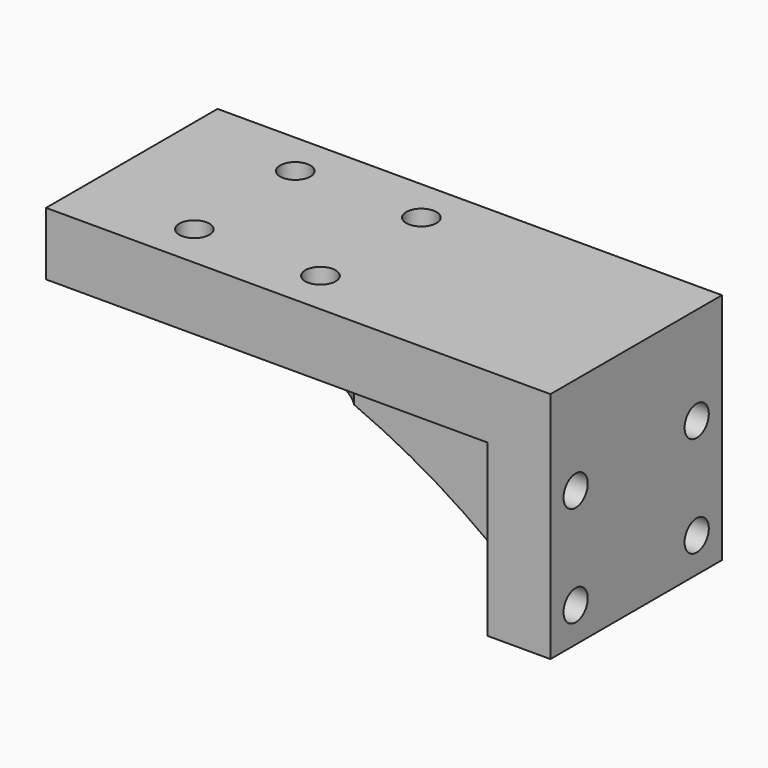
from build123d import *

# Parameters (mm, degrees)
SKETCH005_W     = 40
SKETCH005_H     = 17
PAD002_DEPTH    = 18.5
POCKET003_DEPTH = 17
SKETCH007_R     = 1.2
POCKET004_DEPTH = 40
POCKET005_DEPTH = 13.5
SKETCH009_R     = 1.2
POCKET006_DEPTH = 5
SKETCH010_R     = 2.1
POCKET007_DEPTH = 13.5


with BuildPart() as obj1:
    # Sketch005 (on Face1 of ReferencePocket002) → Pad002 (new body)
    with BuildSketch(Plane(origin=(0, 0, -10), x_dir=(1, 0, 0), z_dir=(0, 0, -1))):
        with Locations((-81, -91.5)):
            Rectangle(SKETCH005_W, SKETCH005_H)
    extrude(amount=PAD002_DEPTH)

    # Sketch006 (on Face4 of Pad002) → Pocket003 (cut)
    with BuildSketch(Plane(origin=(0, 83, -10), x_dir=(1, 0, 0), z_dir=(0, -1, 0))):
        with BuildLine():
            ThreePointArc((-61, -5), (-79.756665, -8.491978), (-96, -18.5))
            Line((-96, -18.5), (-61, -18.5))
            Line((-61, -5), (-61, -18.5))
        make_face()
    extrude(amount=-POCKET003_DEPTH, mode=Mode.SUBTRACT)

    # Sketch007 (on Face6 of Pocket003) → Pocket004 (cut)
    with BuildSketch(Plane(origin=(-101, 0, -10), x_dir=(0, -1, 0), z_dir=(-1, 0, 0))):
        with Locations((-97.5, -7.75)):
            Circle(SKETCH007_R)
        with Locations((-85.5, -7.75)):
            Circle(SKETCH007_R)
        with Locations((-97.5, -15.75)):
            Circle(SKETCH007_R)
        with Locations((-85.5, -15.75)):
            Circle(SKETCH007_R)
    extrude(amount=-POCKET004_DEPTH, mode=Mode.SUBTRACT)

    # Sketch008 (on Face7 of Pocket004) → Pocket005 (cut)
    with BuildSketch(Plane(origin=(0, 0, -28.5), x_dir=(1, 0, 0), z_dir=(0, 0, -1))):
        Polygon((-96, -83), (-61, -83), (-51, -83), (-51, -100), (-61, -100), (-96, -100), (-96, -94.96), (-61, -94.96), (-61, -88.04), (-96, -88.04), align=None)
    extrude(amount=-POCKET005_DEPTH, mode=Mode.SUBTRACT)

    # Sketch009 (on Face2 of Pocket005) → Pocket006 (cut)
    with BuildSketch(Plane.XY.offset(-10)):
        with Locations((-69.96, 96.5)):
            Circle(SKETCH009_R)
        with Locations((-69.96, 86.5)):
            Circle(SKETCH009_R)
        with Locations((-79.96, 96.5)):
            Circle(SKETCH009_R)
        with Locations((-79.96, 86.5)):
            Circle(SKETCH009_R)
    extrude(amount=-POCKET006_DEPTH, mode=Mode.SUBTRACT)

    # Sketch010 (on Face13 of Pocket006) → Pocket007 (cut)
    with BuildSketch(Plane(origin=(0, 0, -28.5), x_dir=(1, 0, 0), z_dir=(0, 0, -1))):
        with Locations((-79.96, -86.5)):
            Circle(SKETCH010_R)
        with Locations((-69.96, -86.5)):
            Circle(SKETCH010_R)
        with Locations((-69.96, -96.5)):
            Circle(SKETCH010_R)
        with Locations((-79.96, -96.5)):
            Circle(SKETCH010_R)
    extrude(amount=-POCKET007_DEPTH, mode=Mode.SUBTRACT)


with BuildPart() as obj1_1:
    # Body002 placement: moved
    add(obj1.part.moved(Location((0, -2.5, -25.5))))


with BuildPart() as part_mirroring:
    # Part__Mirroring: instance of obj1
    add(obj1_1.part.mirror(Plane(origin=(0, 0, 0), x_dir=(0, -1, 0), z_dir=(1, 0, 0))))


solid = part_mirroring.part
